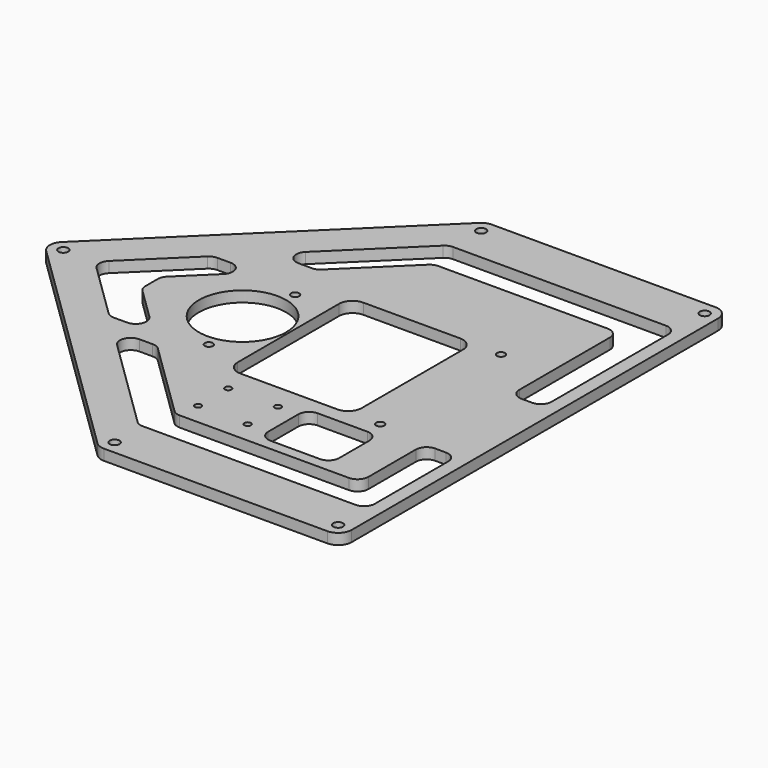
from build123d import *

# Parameters (mm, degrees)
SKETCH042_R     = 1.8
SKETCH042_R_2   = 16.2
SKETCH042_R_3   = 1.2
SKETCH042_R_4   = 1.5
PAD008_DEPTH    = 4
POCKET027_DEPTH = 1.2
SKETCH050_R     = 2
POCKET033_DEPTH = 1.2
POCKET033_TAPER = 45


with BuildPart() as part:
    # Sketch042 → Pad008 (new body)
    with BuildSketch(Plane.XY):
        with BuildLine():
            Line((35, 85), (35, -85))
            ThreePointArc((30, -90), (33.535534, -88.535534), (35, -85))
            Line((30, -90), (-52.963517, -90))
            ThreePointArc((-56.456955, -88.577135), (-54.849561, -89.630641), (-52.963517, -90))
            Line((-56.456955, -88.577135), (-143.493437, -3.577135))
            ThreePointArc((-143.493437, 3.577135), (-145, 0), (-143.493437, -3.577135))
            Line((-143.493437, 3.577135), (-56.456955, 88.577135))
            ThreePointArc((-52.963517, 90), (-54.849561, 89.630641), (-56.456955, 88.577135))
            Line((-52.963517, 90), (30, 90))
            ThreePointArc((35, 85), (33.535534, 88.535534), (30, 90))
        make_face()
        with Locations((-140, 0)):
            Circle(SKETCH042_R, mode=Mode.SUBTRACT)
        with Locations((30, -85)):
            Circle(SKETCH042_R, mode=Mode.SUBTRACT)
        with Locations((30, 85)):
            Circle(SKETCH042_R, mode=Mode.SUBTRACT)
        with Locations((-73.5, 0)):
            Circle(SKETCH042_R_2, mode=Mode.SUBTRACT)
        with Locations((-30, -38)):
            Circle(SKETCH042_R_3, mode=Mode.SUBTRACT)
        with Locations((-30, -52)):
            Circle(SKETCH042_R_3, mode=Mode.SUBTRACT)
        with Locations((-48.4, -38)):
            Circle(SKETCH042_R_3, mode=Mode.SUBTRACT)
        with Locations((-48.4, -52)):
            Circle(SKETCH042_R_3, mode=Mode.SUBTRACT)
        with Locations((0, 28)):
            Circle(SKETCH042_R_4, mode=Mode.SUBTRACT)
        with Locations((0, -28)):
            Circle(SKETCH042_R_4, mode=Mode.SUBTRACT)
        with Locations((-70, 20)):
            Circle(SKETCH042_R_4, mode=Mode.SUBTRACT)
        with Locations((-70, -20)):
            Circle(SKETCH042_R_4, mode=Mode.SUBTRACT)
        with Locations((-52.963517, -85)):
            Circle(SKETCH042_R, mode=Mode.SUBTRACT)
        with Locations((-52.963517, 85)):
            Circle(SKETCH042_R, mode=Mode.SUBTRACT)
        with BuildLine():
            Line((-56.5, 23.5), (-56.5, -23.5))
            ThreePointArc((-56.5, -23.5), (-55.035534, -27.035534), (-51.5, -28.5))
            Line((-51.5, -28.5), (-15.5, -28.5))
            ThreePointArc((-15.5, -28.5), (-11.964466, -27.035534), (-10.5, -23.5))
            Line((-10.5, -23.5), (-10.5, 23.5))
            ThreePointArc((-10.5, 23.5), (-11.964466, 27.035534), (-15.5, 28.5))
            Line((-15.5, 28.5), (-51.5, 28.5))
            ThreePointArc((-51.5, 28.5), (-55.035534, 27.035534), (-56.5, 23.5))
        make_face(mode=Mode.SUBTRACT)
        with BuildLine():
            Line((22, -30), (26, -30))
            ThreePointArc((30, -34), (28.828427, -31.171573), (26, -30))
            Line((30, -34), (30, -68))
            ThreePointArc((26, -72), (28.828427, -70.828427), (30, -68))
            Line((26, -72), (-52.963517, -72))
            ThreePointArc((-55.758267, -70.861708), (-54.472353, -71.704513), (-52.963517, -72))
            Line((-55.758267, -70.861708), (-90.57286, -36.861708))
            ThreePointArc((-87.77811, -30), (-91.482623, -32.491165), (-90.57286, -36.861708))
            Line((-87.77811, -30), (-82.820454, -30))
            ThreePointArc((-80.025704, -31.138292), (-81.311619, -30.295487), (-82.820454, -30))
            Line((-80.025704, -31.138292), (-51.638073, -58.861708))
            ThreePointArc((-51.638073, -58.861708), (-50.352158, -59.704513), (-48.843323, -60))
            Line((-48.843323, -60), (14, -60))
            ThreePointArc((14, -60), (16.828427, -58.828427), (18, -56))
            Line((18, -56), (18, -34))
            ThreePointArc((22, -30), (19.171573, -31.171573), (18, -34))
        make_face(mode=Mode.SUBTRACT)
        with BuildLine():
            Line((22, 10), (26, 10))
            ThreePointArc((26, 10), (28.828427, 11.171573), (30, 14))
            Line((30, 14), (30, 68))
            ThreePointArc((30, 68), (28.828427, 70.828427), (26, 72))
            Line((26, 72), (-52.963517, 72))
            ThreePointArc((-52.963517, 72), (-54.472353, 71.704513), (-55.758267, 70.861708))
            Line((-55.758267, 70.861708), (-84.375349, 42.91421))
            ThreePointArc((-84.375349, 42.91421), (-85.285112, 38.543667), (-81.580599, 36.052502))
            Line((-81.580599, 36.052502), (-76.622942, 36.052502))
            ThreePointArc((-76.622942, 36.052502), (-75.114107, 36.347989), (-73.828192, 37.190794))
            Line((-73.828192, 37.190794), (-51.638073, 58.861708))
            ThreePointArc((-48.843323, 60), (-50.352158, 59.704513), (-51.638073, 58.861708))
            Line((-48.843323, 60), (14, 60))
            ThreePointArc((18, 56), (16.828427, 58.828427), (14, 60))
            Line((18, 56), (18, 14))
            ThreePointArc((18, 14), (19.171573, 11.171573), (22, 10))
        make_face(mode=Mode.SUBTRACT)
        with BuildLine():
            Line((-97.128995, -24.026251), (-102.086655, -24.026251))
            ThreePointArc((-104.881405, -22.887959), (-103.59549, -23.730764), (-102.086655, -24.026251))
            Line((-104.881405, -22.887959), (-125.387457, -2.861708))
            ThreePointArc((-125.387457, 2.861708), (-126.592707, 0), (-125.387457, -2.861708))
            Line((-125.387457, 2.861708), (-104.881397, 22.887967))
            ThreePointArc((-102.086647, 24.026259), (-103.595482, 23.730772), (-104.881397, 22.887967))
            Line((-102.086647, 24.026259), (-97.128986, 24.026259))
            ThreePointArc((-94.334245, 17.164543), (-93.424471, 21.535089), (-97.128986, 24.026259))
            Line((-106.049485, 5.723416), (-94.334245, 17.164543))
            ThreePointArc((-106.049485, 5.723416), (-106.941129, 4.414287), (-107.254735, 2.861708))
            Line((-107.254735, -2.861708), (-107.254735, 2.861708))
            ThreePointArc((-107.254735, -2.861708), (-106.941129, -4.414287), (-106.049485, -5.723416))
            Line((-94.334245, -17.164543), (-106.049485, -5.723416))
            ThreePointArc((-97.128995, -24.026251), (-93.424482, -21.535086), (-94.334245, -17.164543))
        make_face(mode=Mode.SUBTRACT)
        with BuildLine():
            Line((-22.4, -38), (-22.4, -52))
            ThreePointArc((-22.4, -52), (-21.228427, -54.828427), (-18.4, -56))
            Line((-18.4, -56), (0, -56))
            ThreePointArc((0, -56), (2.828427, -54.828427), (4, -52))
            Line((4, -52), (4, -38))
            ThreePointArc((4, -38), (2.828427, -35.171573), (0, -34))
            Line((0, -34), (-18.4, -34))
            ThreePointArc((-18.4, -34), (-21.228427, -35.171573), (-22.4, -38))
        make_face(mode=Mode.SUBTRACT)
    extrude(amount=PAD008_DEPTH)

    # Sketch043 (on Face87 of Pad008) → Pocket027 (cut)
    with BuildSketch(Plane(origin=(0, 0, 0), x_dir=(1, 0, 0), z_dir=(0, 0, -1))):
        Polygon((-136.6, 0), (-138.3, 2.944486), (-141.7, 2.944486), (-143.4, 0), (-141.7, -2.944486), (-138.3, -2.944486), align=None)
        Polygon((30, -81.6), (27.055514, -83.3), (27.055514, -86.7), (30, -88.4), (32.944486, -86.7), (32.944486, -83.3), align=None)
        Polygon((30, 81.6), (32.944486, 83.3), (32.944486, 86.7), (30, 88.4), (27.055514, 86.7), (27.055514, 83.3), align=None)
        Polygon((-67.401924, 18.5), (-67.401924, 21.5), (-70, 23), (-72.598076, 21.5), (-72.598076, 18.5), (-70, 17), align=None)
        Polygon((-67.401924, -21.5), (-67.401924, -18.5), (-70, -17), (-72.598076, -18.5), (-72.598076, -21.5), (-70, -23), align=None)
        Polygon((0, 25), (2.598076, 26.5), (2.598076, 29.5), (0, 31), (-2.598076, 29.5), (-2.598076, 26.5), align=None)
        Polygon((2.598076, -29.5), (2.598076, -26.5), (0, -25), (-2.598076, -26.5), (-2.598076, -29.5), (0, -31), align=None)
        Polygon((-52.963517, -81.6), (-55.908004, -83.3), (-55.908004, -86.7), (-52.963517, -88.4), (-50.019031, -86.7), (-50.019031, -83.3), align=None)
        Polygon((-52.963517, 81.6), (-50.019031, 83.3), (-50.019031, 86.7), (-52.963517, 88.4), (-55.908004, 86.7), (-55.908004, 83.3), align=None)
    extrude(amount=-POCKET027_DEPTH, mode=Mode.SUBTRACT)

    # Sketch050 (on Face4 of Pocket027) → Pocket033 (cut)
    with BuildSketch(Plane(origin=(0, 0, 0), x_dir=(1, 0, 0), z_dir=(0, 0, -1))):
        with Locations((-48.4, 52)):
            Circle(SKETCH050_R)
        with Locations((-48.4, 38)):
            Circle(SKETCH050_R)
        with Locations((-30, 38)):
            Circle(SKETCH050_R)
        with Locations((-30, 52)):
            Circle(SKETCH050_R)
    extrude(amount=-POCKET033_DEPTH, taper=POCKET033_TAPER, mode=Mode.SUBTRACT)


with BuildPart() as part_1:
    # Body005 placement: moved
    add(part.part.moved(Location((0, 0, 100))))


solid = part_1.part
